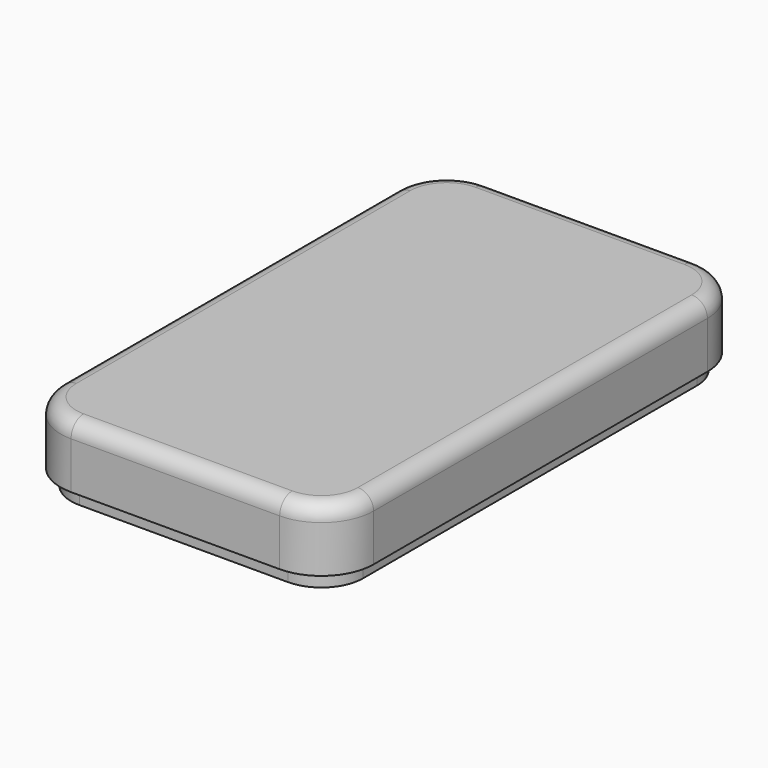
from build123d import *

# Parameters (mm, degrees)
F0_W     = 60
F0_H     = 100
F1_DEPTH = 12
F2_R     = 10
F3_R     = 3
F4_T     = -2.5
F6_DEPTH = 3


with BuildPart() as f1:
    # F0 (on Top) → F1 (new body)
    with BuildSketch(Plane.XY):
        with Locations((0.322031, 1.976583)):
            Rectangle(F0_W, F0_H)
    extrude(amount=F1_DEPTH)

    # F2
    f2_edges = [f1.edges().sort_by_distance(p)[0] for p in [
        (-29.677969, -48.023417, 6),
        (-29.677969, 51.976583, 6),
        (30.322031, -48.023417, 6),
        (30.322031, 51.976583, 6),
    ]]
    fillet(f2_edges, radius=F2_R)

    # F3
    f3_edges = [f1.edges().sort_by_distance(p)[0] for p in [
        (0.322031, 51.976583, 12),
    ]]
    fillet(f3_edges, radius=F3_R)

    # F4
    f4_openings = [f1.faces().sort_by_distance(p)[0] for p in [
        (0.322031, 1.976583, 0),
    ]]
    offset(amount=F4_T, openings=f4_openings)

    # F5 (on face) → F6 (join)
    with BuildSketch(Plane(origin=(0, 0, 0), x_dir=(1, 0, 0), z_dir=(0, 0, -1))):
        with BuildLine():
            Line((-27.677969, 38.023417), (-27.677969, -41.976583))
            ThreePointArc((-27.677969, -41.976583), (-25.334823, -47.633437), (-19.677969, -49.976583))
            Line((-19.677969, -49.976583), (20.322031, -49.976583))
            ThreePointArc((20.322031, -49.976583), (25.978885, -47.633437), (28.322031, -41.976583))
            Line((28.322031, -41.976583), (28.322031, 38.023417))
            ThreePointArc((28.322031, 38.023417), (25.978885, 43.680271), (20.322031, 46.023417))
            Line((20.322031, 46.023417), (-19.677969, 46.023417))
            ThreePointArc((-19.677969, 46.023417), (-25.334823, 43.680271), (-27.677969, 38.023417))
        make_face()
        with BuildLine():
            ThreePointArc((-19.677969, -49.476583), (-24.98127, -47.279884), (-27.177969, -41.976583))
            Line((-27.177969, -41.976583), (-27.177969, 38.023417))
            ThreePointArc((-27.177969, 38.023417), (-24.98127, 43.326718), (-19.677969, 45.523417))
            Line((-19.677969, 45.523417), (20.322031, 45.523417))
            ThreePointArc((20.322031, 45.523417), (25.625332, 43.326718), (27.822031, 38.023417))
            Line((27.822031, 38.023417), (27.822031, -41.976583))
            ThreePointArc((27.822031, -41.976583), (25.625332, -47.279884), (20.322031, -49.476583))
            Line((20.322031, -49.476583), (-19.677969, -49.476583))
        make_face(mode=Mode.SUBTRACT)
    extrude(amount=F6_DEPTH)


solid = f1.part
